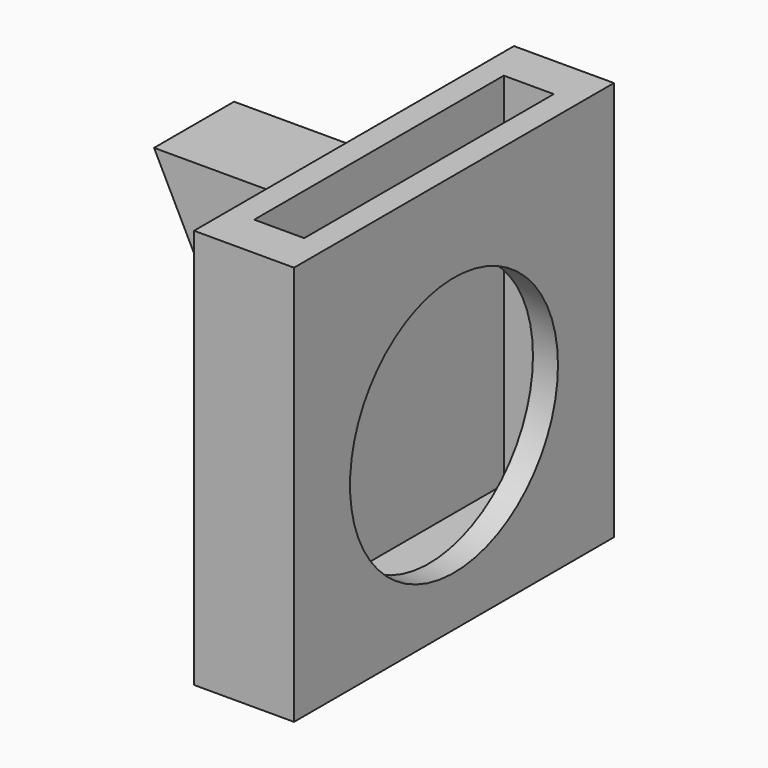
from build123d import *

# Parameters (mm, degrees)
SKETCH133_W       = 5
SKETCH133_H       = 20
PAD080_DEPTH      = 20
SKETCH134_W       = 2.5
SKETCH134_H       = 15.6
POCKET028_DEPTH   = 18
CYLINDER086_R     = 6.5
CYLINDER086_DEPTH = 3
PAD081_DEPTH      = 2.5


with BuildPart() as part:
    # Sketch133 → Pad080 (new body)
    with BuildSketch(Plane.XY):
        with Locations((2.5, 0)):
            Rectangle(SKETCH133_W, SKETCH133_H)
    extrude(amount=-PAD080_DEPTH)

    # Sketch134 → Pocket028 (cut)
    with BuildSketch(Plane(origin=(2.5, 0, 0), x_dir=(1, 0, 0), z_dir=(0, 0, 1))):
        Rectangle(SKETCH134_W, SKETCH134_H)
    extrude(amount=-POCKET028_DEPTH, mode=Mode.SUBTRACT)

    # Cylinder086 → Cylinder086 (cut)
    with BuildSketch(Plane(origin=(3, 0, -11), x_dir=(0, 1, 0), z_dir=(1, 0, 0))):
        Circle(CYLINDER086_R)
    extrude(amount=CYLINDER086_DEPTH, mode=Mode.SUBTRACT)

    # Sketch135 → Pad081 (join, symmetric)
    with BuildSketch(Plane(origin=(0, 0, -2), x_dir=(1, 0, 0), z_dir=(0, -1, 0))):
        Polygon((-8, 0), (0, 0), (0, -16), align=None)
    extrude(amount=PAD081_DEPTH, both=True)


with BuildPart() as part_1:
    # Body118 placement: moved
    add(part.part.moved(Location((5, 0, 0))))


solid = part_1.part
